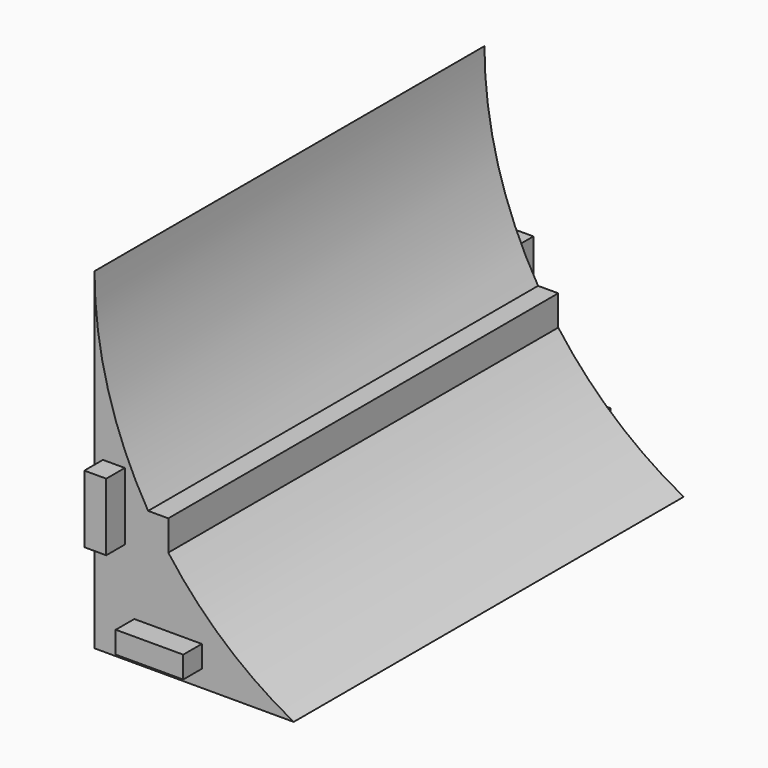
from build123d import *

# Parameters (mm, degrees)
F0_W     = 10.16
F0_H     = 3.3
F0_W_2   = 3.3
F0_H_2   = 10.16
F1_DEPTH = 73.4
F2_DEPTH = 3.5
F4_W     = 3.3
F4_H     = 10.16
F4_W_2   = 10.16
F4_H_2   = 3.3
F5_DEPTH = 3.5
F7_DEPTH = 73.4


with BuildPart() as f1:
    # F0 (on Front) → F1 (new body)
    with BuildSketch(Plane.XZ):
        with BuildLine():
            Line((0, 50), (0, 0))
            Line((0, 0), (30, 0))
            ThreePointArc((30, 0), (8.0754008763, 20.8452405258), (0, 50))
        make_face()
        with Locations((11.08, 4.19)):
            Rectangle(F0_W, F0_H, mode=Mode.SUBTRACT)
        with Locations((2.92, 19.7566125902)):
            Rectangle(F0_W_2, F0_H_2, mode=Mode.SUBTRACT)
        with Locations((2.92, 19.7566125902)):
            Rectangle(F0_W_2, F0_H_2)
        with Locations((11.08, 4.19)):
            Rectangle(F0_W, F0_H)
    extrude(amount=F1_DEPTH)

    # F0 (on Front) → F2 (join)
    with BuildSketch(Plane.XZ):
        with Locations((2.92, 19.7566125902)):
            Rectangle(F0_W_2, F0_H_2)
        with Locations((11.08, 4.19)):
            Rectangle(F0_W, F0_H)
    extrude(amount=-F2_DEPTH)

    # F4 (on offset) → F5 (join)
    with BuildSketch(Plane.XZ.offset(73.4)):
        with Locations((2.92, 20.32)):
            Rectangle(F4_W, F4_H)
        with Locations((11.08, 4.19)):
            Rectangle(F4_W_2, F4_H_2)
    extrude(amount=F5_DEPTH)

    # F6 (on offset) → F7 (join)
    with BuildSketch(Plane.XZ.offset(73.4)):
        with BuildLine():
            ThreePointArc((8.0754008763, 20.8452405258), (9.5386255261, 18.5347993911), (11.1116185287, 16.297645479))
            Line((11.1116185287, 16.297645479), (11.1116185287, 20.8452405258))
            Line((11.1116185287, 20.8452405258), (10.6401696458, 20.8452405258))
            Line((10.6401696458, 20.8452405258), (8.0754008763, 20.8452405258))
        make_face()
    extrude(amount=-F7_DEPTH)


solid = f1.part
